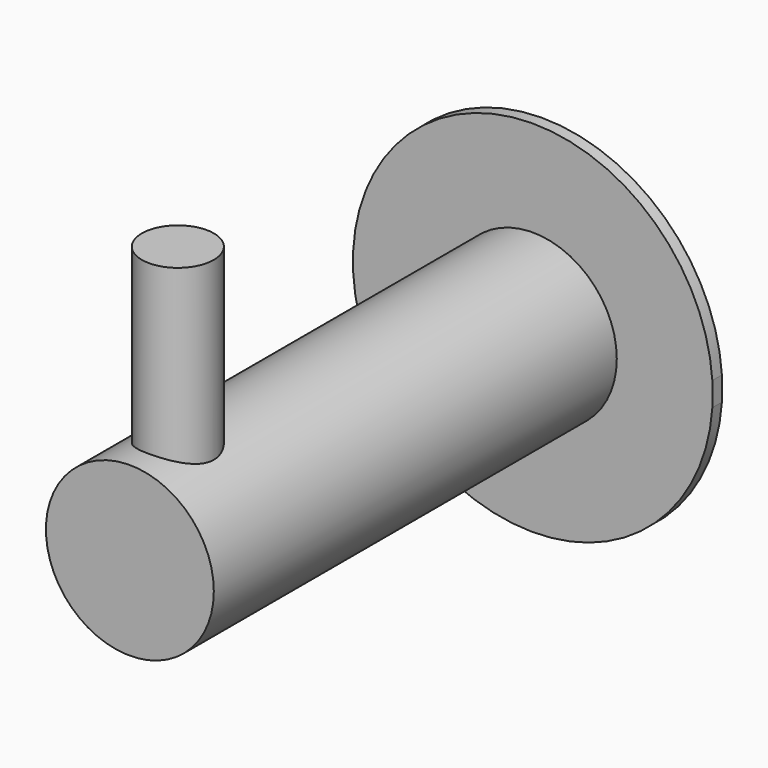
from build123d import *

# Parameters (mm, degrees)
F0_R     = 15
F1_DEPTH = 1
F2_R     = 7
F3_DEPTH = 42
F4_R     = 3
F5_DEPTH = 21
F6_W     = 2
F6_H     = 2
F7_DEPTH = 1.001


with BuildPart() as f1:
    # F0 (on Front) → F1 (new body)
    with BuildSketch(Plane.XZ):
        Circle(F0_R)
    extrude(amount=F1_DEPTH)

    # F2 (on face) → F3 (join)
    with BuildSketch(Plane.XZ.offset(1)):
        Circle(F2_R)
    extrude(amount=F3_DEPTH)

    # F4 (on Top) → F5 (join)
    with BuildSketch(Plane.XY):
        with Locations((0, -38)):
            Circle(F4_R)
    extrude(amount=F5_DEPTH)

    # F6 (on face) → F7 (cut, through all)
    with BuildSketch(Plane.XZ.offset(1)):
        with Locations((15.96663, 0)):
            Rectangle(F6_W, F6_H)
    extrude(amount=-F7_DEPTH, mode=Mode.SUBTRACT)


solid = f1.part
